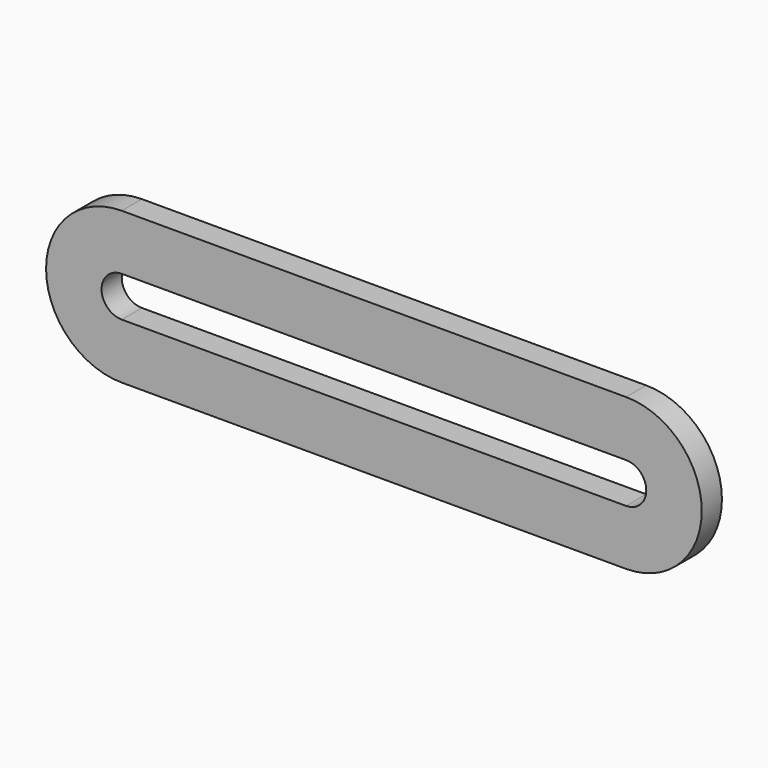
from build123d import *

# Parameters (mm, degrees)
PAD_DEPTH = 2.5


with BuildPart() as part:
    # Sketch → Pad (new body)
    with BuildSketch(Plane.XZ):
        with BuildLine():
            ThreePointArc((0, 7.5), (-7.5, 0), (0, -7.5))
            Line((0, -7.5), (50, -7.5))
            ThreePointArc((50, -7.5), (57.5, 0), (50, 7.5))
            Line((50, 7.5), (0, 7.5))
        make_face()
        with BuildLine():
            ThreePointArc((0, 2), (-2, 0), (0, -2))
            Line((0, -2), (50, -2))
            ThreePointArc((50, -2), (52, 0), (50, 2))
            Line((50, 2), (0, 2))
        make_face(mode=Mode.SUBTRACT)
    extrude(amount=PAD_DEPTH)


solid = part.part
